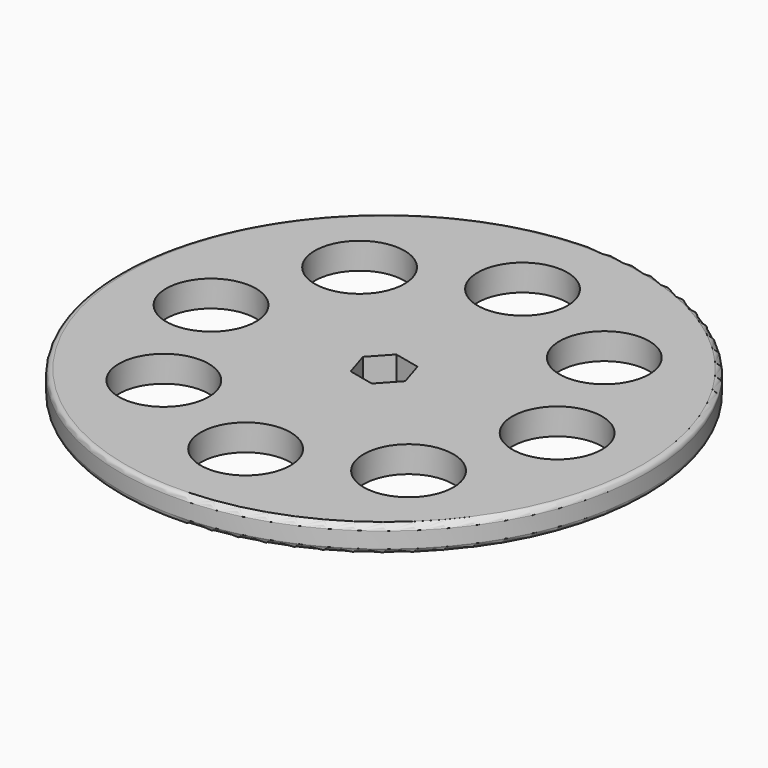
from build123d import *

# Parameters (mm, degrees)
F0_R     = 50
F0_R_2   = 8.5
F1_DEPTH = 5
F2_R     = 1


with BuildPart() as f1:
    # F0 (on Top) → F1 (new body)
    with BuildSketch(Plane.XY):
        Circle(F0_R)
        with Locations((-23.180378, -23.180378)):
            Circle(F0_R_2, mode=Mode.SUBTRACT)
        with Locations((0, -32.782005)):
            Circle(F0_R_2, mode=Mode.SUBTRACT)
        with Locations((23.180378, -23.180378)):
            Circle(F0_R_2, mode=Mode.SUBTRACT)
        with Locations((-32.782005, 0)):
            Circle(F0_R_2, mode=Mode.SUBTRACT)
        with Locations((-23.180378, 23.180378)):
            Circle(F0_R_2, mode=Mode.SUBTRACT)
        Polygon((3.381157, 3.683446), (4.880537, -1.086445), (1.499379, -4.769891), (-3.381157, -3.683446), (-4.880537, 1.086445), (-1.499379, 4.769891), align=None, mode=Mode.SUBTRACT)
        with Locations((23.180378, 23.180378)):
            Circle(F0_R_2, mode=Mode.SUBTRACT)
        with Locations((32.782005, 0)):
            Circle(F0_R_2, mode=Mode.SUBTRACT)
        with Locations((0, 32.782005)):
            Circle(F0_R_2, mode=Mode.SUBTRACT)
    extrude(amount=F1_DEPTH)

    # F2
    f2_edges = [f1.edges().sort_by_distance(p)[0] for p in [
        (-50, 0, 5),
        (-50, 0, 0),
    ]]
    fillet(f2_edges, radius=F2_R)


solid = f1.part
